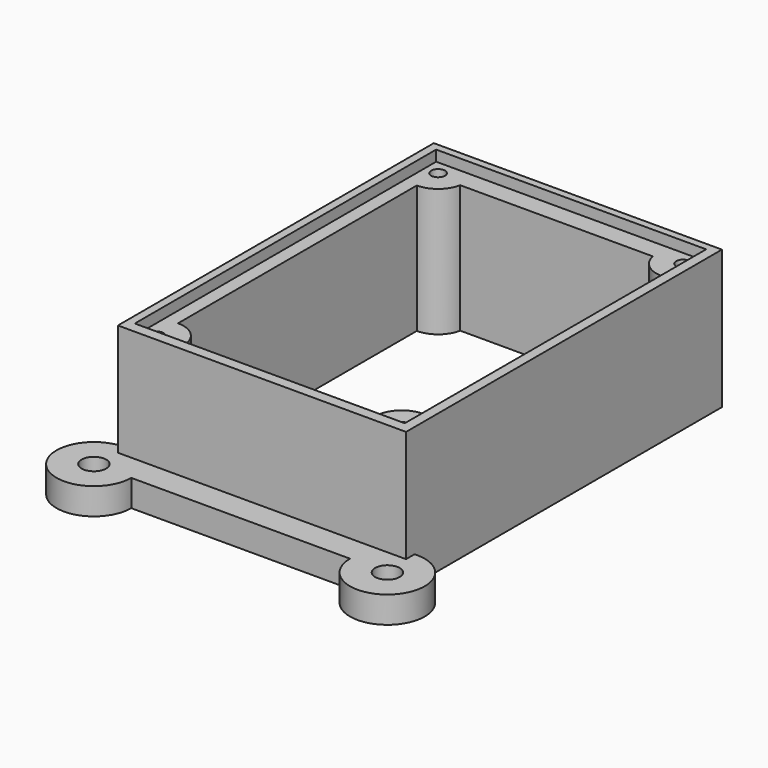
from build123d import *

# Parameters (mm, degrees)
SKETCH065_W     = 54
SKETCH065_H     = 74
PAD040_DEPTH    = 26
SKETCH064_W     = 50.6
SKETCH064_H     = 70.6
POCKET019_DEPTH = 2
SKETCH066_R     = 1.3
POCKET020_DEPTH = 24.001
SKETCH067_R     = 2.3
PAD041_DEPTH    = 5


with BuildPart() as part:
    # Sketch065 → Pad040 (new body)
    with BuildSketch(Plane.XY):
        Rectangle(SKETCH065_W, SKETCH065_H)
        with BuildLine():
            Line((-22.96, 27.96), (-22.96, -27.96))
            ThreePointArc((-17.96, -32.96), (-19.424466, -29.424466), (-22.96, -27.96))
            Line((-17.96, -32.96), (17.96, -32.96))
            ThreePointArc((22.96, -27.96), (19.424466, -29.424466), (17.96, -32.96))
            Line((22.96, -27.96), (22.96, 27.96))
            ThreePointArc((18.053025, 32), (19.78195, 29.099948), (22.96, 27.96))
            Line((18.053025, 32), (-18.053025, 32))
            ThreePointArc((-22.96, 27.96), (-19.78195, 29.099948), (-18.053025, 32))
        make_face(mode=Mode.SUBTRACT)
    extrude(amount=-PAD040_DEPTH)

    # Sketch064 → Pocket019 (cut)
    with BuildSketch(Plane.XY):
        with Locations((-0.155955, 0.32503)):
            Rectangle(SKETCH064_W, SKETCH064_H)
    extrude(amount=-POCKET019_DEPTH, mode=Mode.SUBTRACT)

    # Sketch066 (on Face19 of Pocket019) → Pocket020 (cut, through all)
    with BuildSketch(Plane.XY.offset(-2)):
        with Locations((-22.96, 32.96)):
            Circle(SKETCH066_R)
        with Locations((22.96, 32.96)):
            Circle(SKETCH066_R)
        with Locations((22.96, -32.96)):
            Circle(SKETCH066_R)
        with Locations((-22.96, -32.96)):
            Circle(SKETCH066_R)
    extrude(amount=-POCKET020_DEPTH, mode=Mode.SUBTRACT)

    # Sketch067 (on Face5 of Pocket020) → Pad041 (join)
    with BuildSketch(Plane(origin=(0, 0, -26), x_dir=(1, 0, 0), z_dir=(0, 0, -1))):
        with BuildLine():
            ThreePointArc((-20.5, 42), (-32.449755, 46.94974), (-27.499978, 35))
            Line((-27.499978, 35), (27.5, 35))
            ThreePointArc((27.5, 35), (32.449747, 46.949747), (20.5, 42))
            Line((-20.5, 42), (20.5, 42))
        make_face()
        with Locations((-27.5, 42)):
            Circle(SKETCH067_R, mode=Mode.SUBTRACT)
        with Locations((27.5, 42)):
            Circle(SKETCH067_R, mode=Mode.SUBTRACT)
    extrude(amount=-PAD041_DEPTH)


solid = part.part
